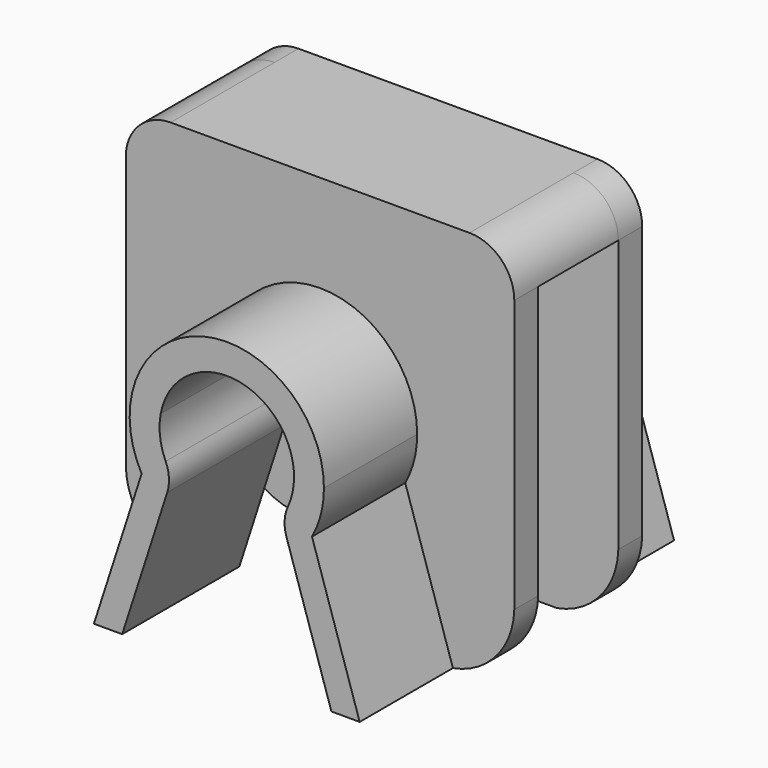
from build123d import *

# Parameters (mm, degrees)
F1_DEPTH = 9.8
F2_DEPTH = 2
F3_R     = 3
F5_DEPTH = 3.35
F7_R     = 2.5


with BuildPart() as f1:
    # F0 (on Front) → F1 (new body)
    with BuildSketch(Plane.XZ):
        with BuildLine():
            ThreePointArc((6.5, 0), (-1.6120548351, 6.2969261714), (-5.7003936026, -3.1233816249))
            Line((-5.7003936026, -3.1233816249), (-4.4224832798, 0.8316499504))
            ThreePointArc((-4.4224832798, 0.8316499504), (0, 4.5), (4.4224832798, 0.8316499504))
            Line((4.4224832798, 0.8316499504), (5.7003936026, -3.1233816249))
            ThreePointArc((5.7003936026, -3.1233816249), (6.2969261714, -1.6120548351), (6.5, 0))
        make_face()
        with BuildLine():
            Line((-4.4224832798, 0.8316499504), (-5.7003936026, -3.1233816249))
            ThreePointArc((-5.7003936026, -3.1233816249), (-5.1003989607, -4.0293833824), (-4.3578547765, -4.8227690953))
            Line((-4.3578547765, -4.8227690953), (-3.65, -2.6320144377))
            ThreePointArc((-3.65, -2.6320144377), (-4.3920939566, -0.9795461582), (-4.4224832798, 0.8316499504))
        make_face()
        with BuildLine():
            Line((-5.7003936026, -3.1233816249), (-8.891627942, -13))
            Line((-8.891627942, -13), (-7, -13))
            Line((-7, -13), (-4.3578547765, -4.8227690953))
            ThreePointArc((-4.3578547765, -4.8227690953), (-5.1003989607, -4.0293833824), (-5.7003936026, -3.1233816249))
        make_face()
        with BuildLine():
            Line((7, -13), (8.891627942, -13))
            Line((8.891627942, -13), (5.7003936026, -3.1233816249))
            ThreePointArc((5.7003936026, -3.1233816249), (5.1003989607, -4.0293833824), (4.3578547765, -4.8227690953))
            Line((4.3578547765, -4.8227690953), (7, -13))
        make_face()
        with BuildLine():
            ThreePointArc((4.3578547765, -4.8227690953), (5.1003989607, -4.0293833824), (5.7003936026, -3.1233816249))
            Line((5.7003936026, -3.1233816249), (4.4224832798, 0.8316499504))
            ThreePointArc((4.4224832798, 0.8316499504), (4.4805789112, 0.4176273704), (4.5, 0))
            ThreePointArc((4.5, 0), (4.2822307271, -1.3829316686), (3.65, -2.6320144377))
            Line((3.65, -2.6320144377), (4.3578547765, -4.8227690953))
        make_face()
    extrude(amount=F1_DEPTH)

    # F0 (on Front) → F2 (join)
    with BuildSketch(Plane.XZ):
        with BuildLine():
            Line((13, 13), (-13, 13))
            Line((-13, 13), (-13, -8.2140415907))
            ThreePointArc((-13, -8.2140415907), (-11.7956860143, -11.3365696666), (-8.891627942, -13))
            Line((-8.891627942, -13), (-5.7003936026, -3.1233816249))
            ThreePointArc((-5.7003936026, -3.1233816249), (-1.6120548351, 6.2969261714), (6.5, 0))
            ThreePointArc((6.5, 0), (6.2969261714, -1.6120548351), (5.7003936026, -3.1233816249))
            Line((5.7003936026, -3.1233816249), (8.891627942, -13))
            ThreePointArc((8.891627942, -13), (11.7956860143, -11.3365696666), (13, -8.2140415907))
            Line((13, -8.2140415907), (13, 13))
        make_face()
    extrude(amount=F2_DEPTH)

    # F3
    f3_edges = [f1.edges().sort_by_distance(p)[0] for p in [
        (-13, -1, 13),
        (13, -1, 13),
    ]]
    fillet(f3_edges, radius=F3_R)

    # F4 (on face) → F5 (join)
    with BuildSketch(Plane.XZ):
        with BuildLine():
            ThreePointArc((13, 10), (12.1213203436, 12.1213203436), (10, 13))
            Line((10, 13), (-10, 13))
            ThreePointArc((-10, 13), (-12.1213203436, 12.1213203436), (-13, 10))
            Line((-13, 10), (13, 10))
        make_face()
    extrude(amount=-F5_DEPTH)

    # F6: F1 across face


with BuildPart() as f1_1:
    add(f1.part)
    add(f1.part.mirror(Plane(origin=(0, 3.35, 11.4567592), x_dir=(1, 0, 0), z_dir=(0, 1, 0))))

    # F7
    f7_edges = [f1_1.edges().sort_by_distance(p)[0] for p in [
        (-3.65, -4.9, -2.632014),
        (-3.65, 11.6, -2.632014),
        (3.65, 11.6, -2.632014),
        (3.65, -4.9, -2.632014),
    ]]
    fillet(f7_edges, radius=F7_R)


solid = f1_1.part
